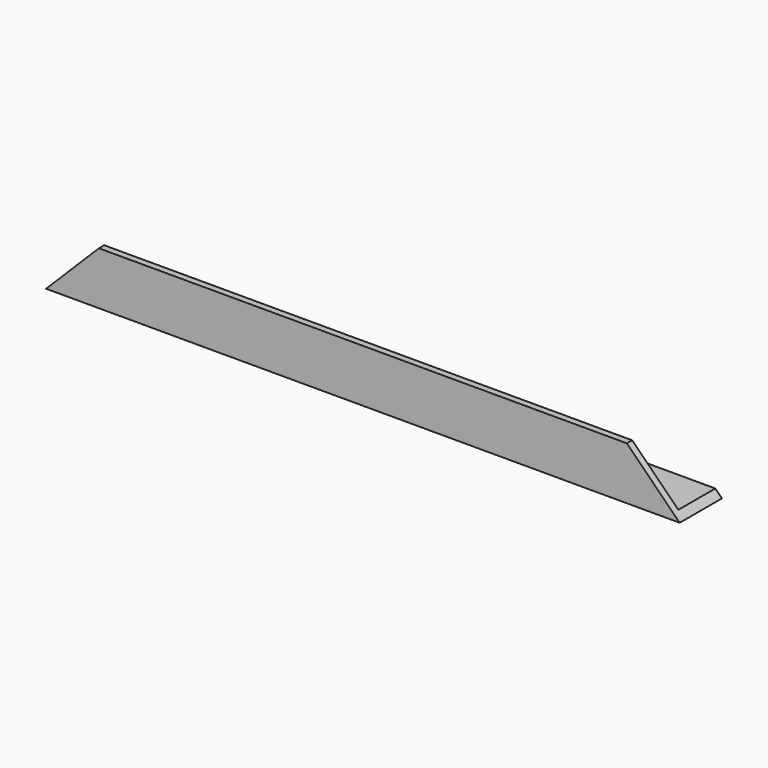
from build123d import *

# Parameters (mm, degrees)
PAD6963_DEPTH            = 152.4
POCKET667_DEPTH          = 25.401
SKETCH7921_R             = 2.38125
SKETCH7921_R_2           = 3.96875
POCKET671_DEPTH          = 25.401
BODY6269_PLACEMENT_ANGLE = 180


with BuildPart() as part:
    # Sketch7915 → Pad6963 (new body, symmetric)
    with BuildSketch(Plane.YZ):
        Polygon((0, 0), (0, -25.4), (3.175, -25.4), (3.175, -3.175), (25.4, -3.175), (25.4, 0), align=None)
    extrude(amount=PAD6963_DEPTH, both=True)

    # Sketch7916 → Pocket667 (cut, through all)
    with BuildSketch(Plane.XZ):
        Polygon((-114.3, -38.1), (-152.4, 0), (-152.4, -38.1), align=None)
        Polygon((114.3, -38.1), (152.4, 0), (152.4, -38.1), align=None)
    extrude(amount=-POCKET667_DEPTH, mode=Mode.SUBTRACT)

    # Sketch7921 → Pocket671 (cut, through all)
    with BuildSketch(Plane.XY):
        with Locations((-53.975, 9.525)):
            Circle(SKETCH7921_R)
        with Locations((53.975, 9.525)):
            Circle(SKETCH7921_R)
        with Locations((139.7, 12.7)):
            Circle(SKETCH7921_R_2)
    extrude(amount=-POCKET671_DEPTH, mode=Mode.SUBTRACT)


with BuildPart() as part_1:
    # Body6269 placement: moved
    add(part.part.moved(Location((0, 0, -161.925))).rotate(Axis((0, 0, -161.925), (0, 1, 0)), BODY6269_PLACEMENT_ANGLE))


solid = part_1.part
